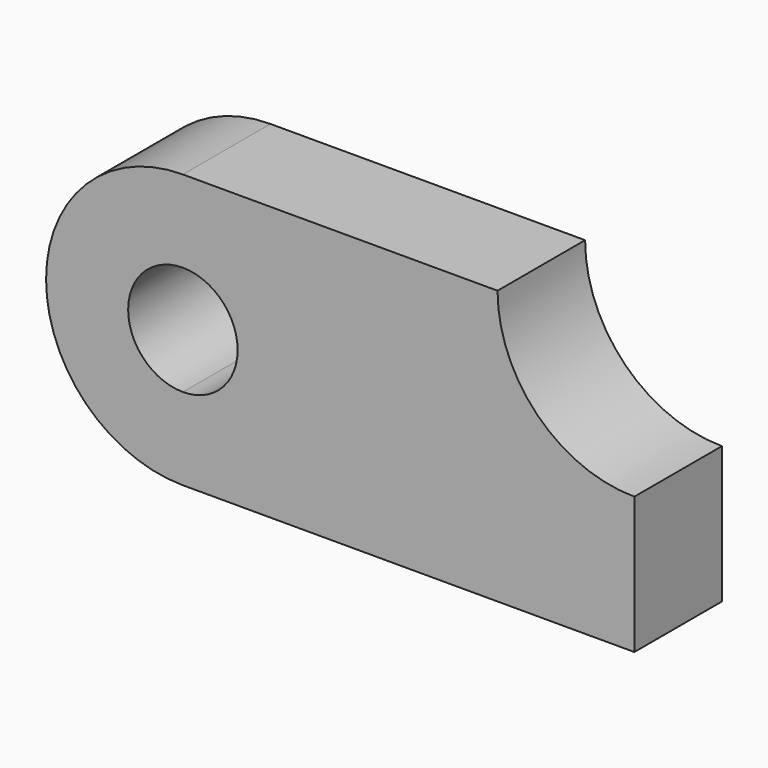
from build123d import *

# Parameters (mm, degrees)
F1_DEPTH = 25.4


with BuildPart() as f1:
    # F0 (on Front) → F1 (new body)
    with BuildSketch(Plane.XZ):
        with BuildLine():
            Line((-75.527645, 31.945414), (-75.527645, 50.995414))
            ThreePointArc((-75.527645, 50.995414), (-107.277645, 19.245414), (-75.527645, -12.504586))
            Line((-75.527645, -12.504586), (-75.527645, 6.545414))
            ThreePointArc((-75.527645, 6.545414), (-88.227645, 19.245414), (-75.527645, 31.945414))
        make_face()
        with BuildLine():
            ThreePointArc((-43.777645, 19.245414), (-53.077005, 41.696054), (-75.527645, 50.995414))
            Line((-75.527645, 50.995414), (-75.527645, 31.945414))
            ThreePointArc((-75.527645, 31.945414), (-66.547389, 28.22567), (-62.827645, 19.245414))
            ThreePointArc((-62.827645, 19.245414), (-66.547389, 10.265158), (-75.527645, 6.545414))
            Line((-75.527645, 6.545414), (-75.527645, -12.504586))
            ThreePointArc((-75.527645, -12.504586), (-53.077005, -3.205227), (-43.777645, 19.245414))
        make_face()
        with BuildLine():
            Line((-2.502645, 50.995414), (-75.527645, 50.995414))
            ThreePointArc((-75.527645, 50.995414), (-53.077005, 41.696054), (-43.777645, 19.245414))
            ThreePointArc((-43.777645, 19.245414), (-53.077005, -3.205227), (-75.527645, -12.504586))
            Line((-75.527645, -12.504586), (29.247355, -12.504586))
            Line((29.247355, -12.504586), (29.247355, 19.245414))
            ThreePointArc((29.247355, 19.245414), (6.796714, 28.544773), (-2.502645, 50.995414))
        make_face()
    extrude(amount=F1_DEPTH)


solid = f1.part
